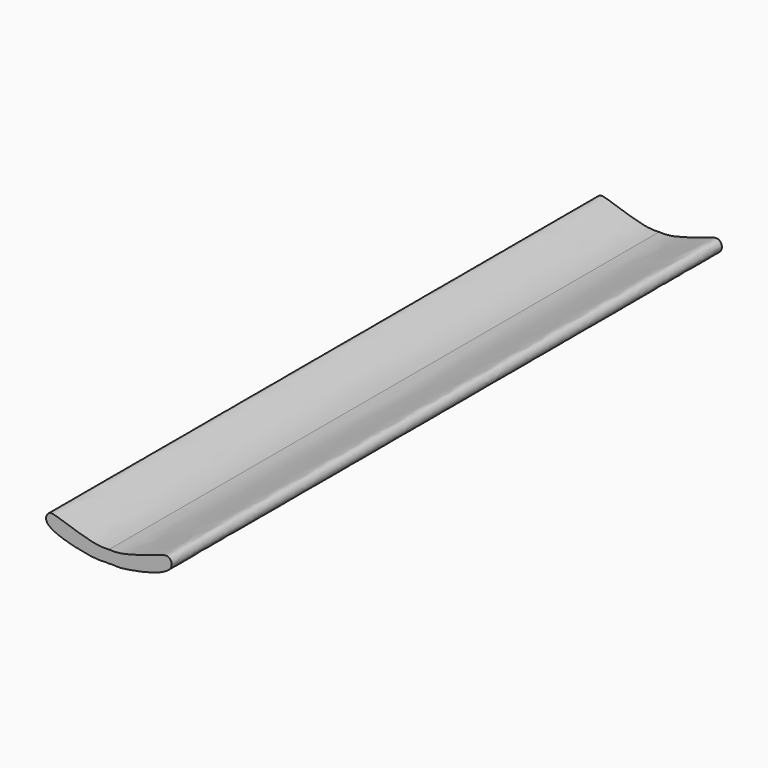
from build123d import *

# Parameters (mm, degrees)
F1_DEPTH = 254


with BuildPart() as f1:
    # F0 (on Front) → F1 (new body)
    with BuildSketch(Plane.XZ):
        with BuildLine():
            add(Edge.make_bspline(
                [(0, 4.572), (3.1807506479, 4.3248224653), (9.3331957162, 5.6959939838), (18.6892871372, 8.9383521409), (22.4544594088, 9.9863107952), (25.2233967685, 3.4585667242), (2.7621152581, -0.8167218784), (1.9339498883, 0.2232217299), (0, 0)],
                knots=[0, 0, 0, 0, 0.1902746557, 0.3834353358, 0.4923563476, 0.6065035488, 0.8760921897, 1, 1, 1, 1], degree=3))
            add(Edge.make_bspline(
                [(0, 4.572), (-3.1807506479, 4.3248224653), (-9.3331957162, 5.6959939838), (-18.6892871372, 8.9383521409), (-22.4544594088, 9.9863107952), (-25.2233967685, 3.4585667242), (-2.7621152581, -0.8167218784), (-1.9339498883, 0.2232217299), (0, 0)],
                knots=[0, 0, 0, 0, 0.1902746557, 0.3834353358, 0.4923563476, 0.6065035488, 0.8760921897, 1, 1, 1, 1], degree=3))
        make_face()
    extrude(amount=F1_DEPTH)


solid = f1.part
